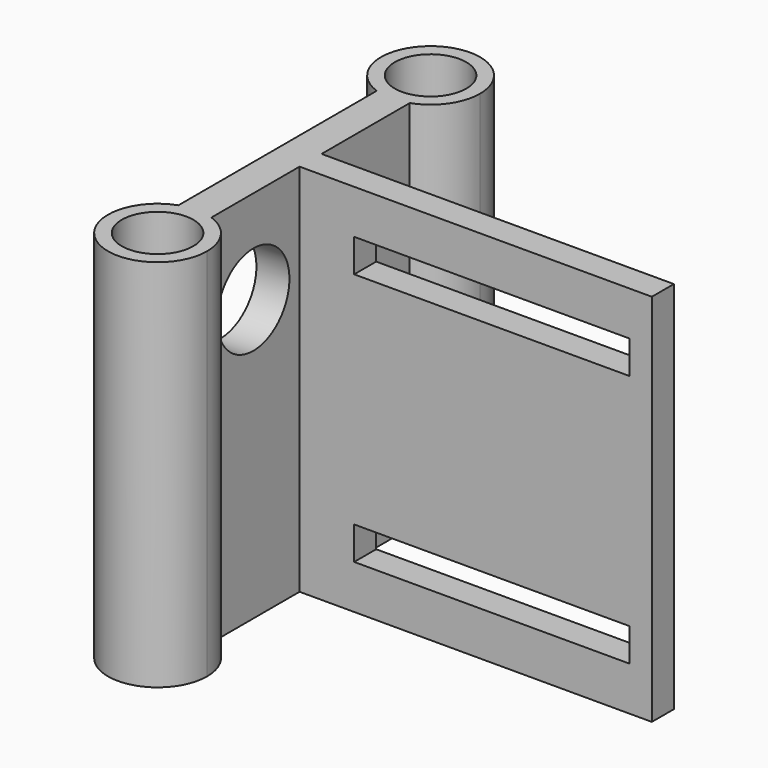
from build123d import *

# Parameters (mm, degrees)
F0_R     = 3.25
F1_DEPTH = 34
F3_DEPTH = 25
F4_W     = 25
F4_H     = 3
F5_DEPTH = 25


with BuildPart() as f1:
    # F0 (on Top) → F1 (new body)
    with BuildSketch(Plane.XY):
        with BuildLine():
            ThreePointArc((-29.961314, 5.041625), (-27.78708, 6.686189), (-26.961314, 9.284266))
            ThreePointArc((-26.961314, 9.284266), (-34.05939, 12.9585), (-32.961314, 5.041625))
            ThreePointArc((-32.961314, 5.041625), (-31.461314, 4.784266), (-29.961314, 5.041625))
        make_face()
        with Locations((-31.461314, 9.284266)):
            Circle(F0_R, mode=Mode.SUBTRACT)
        with BuildLine():
            ThreePointArc((-29.961314, 5.041625), (-31.461314, 4.784266), (-32.961314, 5.041625))
            Line((-32.961314, 5.041625), (-32.961314, -6.215734))
            Line((-32.961314, -6.215734), (2.038686, -6.215734))
            Line((2.038686, -6.215734), (2.038686, -4.965734))
            Line((2.038686, -4.965734), (-29.961314, -4.965734))
            Line((-29.961314, -4.965734), (-29.961314, 5.041625))
        make_face()
        with BuildLine():
            Line((2.038686, -6.215734), (-32.961314, -6.215734))
            Line((-32.961314, -6.215734), (-32.961314, -17.473094))
            ThreePointArc((-32.961314, -17.473094), (-31.461314, -17.215734), (-29.961314, -17.473094))
            Line((-29.961314, -17.473094), (-29.961314, -7.465734))
            Line((-29.961314, -7.465734), (2.038686, -7.465734))
            Line((2.038686, -7.465734), (2.038686, -6.215734))
        make_face()
        with BuildLine():
            ThreePointArc((-29.961314, -17.473094), (-31.461314, -17.215734), (-32.961314, -17.473094))
            ThreePointArc((-32.961314, -17.473094), (-34.05939, -25.389969), (-26.961314, -21.715734))
            ThreePointArc((-26.961314, -21.715734), (-27.78708, -19.117658), (-29.961314, -17.473094))
        make_face()
        with Locations((-31.461314, -21.715734)):
            Circle(F0_R, mode=Mode.SUBTRACT)
    extrude(amount=F1_DEPTH)

    # F2 (on face) → F3 (cut)
    with BuildSketch(Plane(origin=(-32.961314, 0, 0), x_dir=(0, -1, 0), z_dir=(-1, 0, 0))):
        with BuildLine():
            ThreePointArc((8.615734, 25.5), (12.715734, 21.4), (16.815734, 25.5))
            ThreePointArc((16.815734, 25.5), (12.715734, 29.6), (8.615734, 25.5))
        make_face()
    extrude(amount=-F3_DEPTH, mode=Mode.SUBTRACT)

    # F4 (on face) → F5 (cut)
    with BuildSketch(Plane.XZ.offset(7.465734)):
        with Locations((-12.5, 28.5)):
            Rectangle(F4_W, F4_H)
        with Locations((-12.5, 5.5)):
            Rectangle(F4_W, F4_H)
    extrude(amount=-F5_DEPTH, mode=Mode.SUBTRACT)


solid = f1.part
